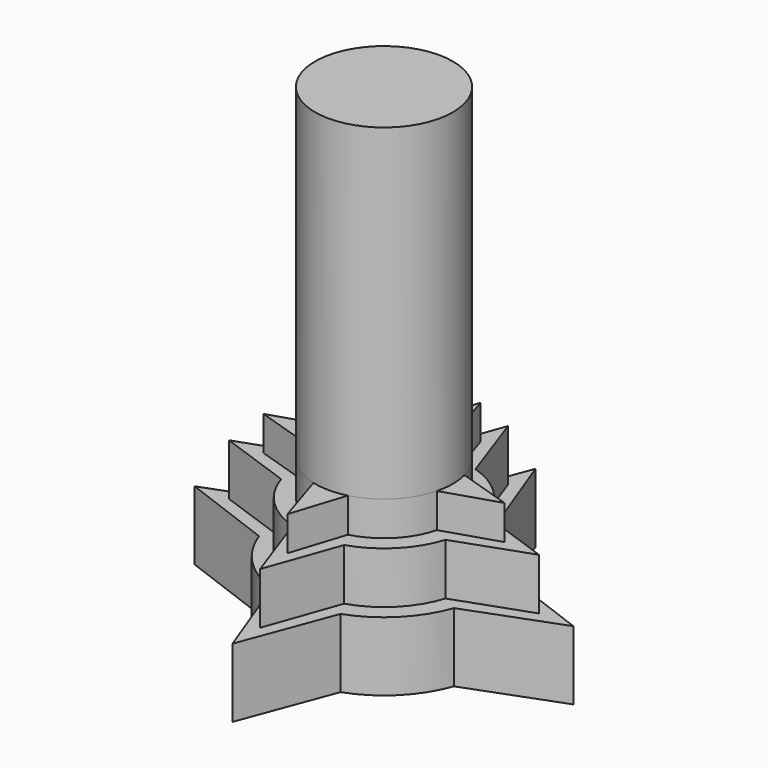
from build123d import *

# Parameters (mm, degrees)
F1_DEPTH = 25.4
F3_DEPTH = 44.45
F5_DEPTH = 57.15
F6_R     = 25.4
F7_DEPTH = 177.8


with BuildPart() as f1:
    # F0 (on Top) → F1 (new body)
    with BuildSketch(Plane.XY):
        with BuildLine():
            ThreePointArc((-38.1, 0), (-37.551305, 6.442785), (-35.921024, 12.7))
            Line((-35.921024, 12.7), (-69.85, 0))
            Line((-69.85, 0), (-38.1, 0))
        make_face()
        with BuildLine():
            Line((-69.85, 0), (-35.921024, -12.7))
            ThreePointArc((-35.921024, -12.7), (-37.551305, -6.442785), (-38.1, 0))
            Line((-38.1, 0), (-69.85, 0))
        make_face()
        with BuildLine():
            ThreePointArc((35.921024, 12.7), (37.551305, 6.442785), (38.1, 0))
            ThreePointArc((38.1, 0), (37.551305, -6.442785), (35.921024, -12.7))
            Line((35.921024, -12.7), (69.85, 0))
            Line((69.85, 0), (35.921024, 12.7))
        make_face()
        with BuildLine():
            ThreePointArc((0, 38.1), (6.442785, 37.551305), (12.7, 35.921024))
            Line((12.7, 35.921024), (0, 69.85))
            Line((0, 69.85), (0, 38.1))
        make_face()
        with BuildLine():
            ThreePointArc((-12.7, 35.921024), (-6.442785, 37.551305), (0, 38.1))
            Line((0, 38.1), (0, 69.85))
            Line((0, 69.85), (-12.7, 35.921024))
        make_face()
        with BuildLine():
            ThreePointArc((35.921024, -12.7), (37.551305, -6.442785), (38.1, 0))
            ThreePointArc((38.1, 0), (37.551305, 6.442785), (35.921024, 12.7))
            ThreePointArc((35.921024, 12.7), (26.940768, 26.940768), (12.7, 35.921024))
            ThreePointArc((12.7, 35.921024), (6.442785, 37.551305), (0, 38.1))
            ThreePointArc((0, 38.1), (-6.442785, 37.551305), (-12.7, 35.921024))
            ThreePointArc((-12.7, 35.921024), (-26.940768, 26.940768), (-35.921024, 12.7))
            ThreePointArc((-35.921024, 12.7), (-37.551305, 6.442785), (-38.1, 0))
            ThreePointArc((-38.1, 0), (-37.551305, -6.442785), (-35.921024, -12.7))
            ThreePointArc((-35.921024, -12.7), (-26.940768, -26.940768), (-12.7, -35.921024))
            ThreePointArc((-12.7, -35.921024), (0, -38.1), (12.7, -35.921024))
            ThreePointArc((12.7, -35.921024), (26.940768, -26.940768), (35.921024, -12.7))
        make_face()
        with BuildLine():
            Line((0, -69.85), (12.7, -35.921024))
            ThreePointArc((12.7, -35.921024), (0, -38.1), (-12.7, -35.921024))
            Line((-12.7, -35.921024), (0, -69.85))
        make_face()
    extrude(amount=F1_DEPTH)

    # F2 (on Top) → F3 (join)
    with BuildSketch(Plane.XY):
        with BuildLine():
            ThreePointArc((30.28757, -9.525), (31.382263, -4.818307), (31.75, 0))
            ThreePointArc((31.75, 0), (31.382263, 4.818307), (30.28757, 9.525))
            ThreePointArc((30.28757, 9.525), (22.45064, 22.45064), (9.525, 30.28757))
            ThreePointArc((9.525, 30.28757), (0, 31.75), (-9.525, 30.28757))
            ThreePointArc((-9.525, 30.28757), (-22.45064, 22.45064), (-30.28757, 9.525))
            ThreePointArc((-30.28757, 9.525), (-31.382263, 4.818307), (-31.75, 0))
            ThreePointArc((-31.75, 0), (-31.382263, -4.818307), (-30.28757, -9.525))
            ThreePointArc((-30.28757, -9.525), (-22.45064, -22.45064), (-9.525, -30.28757))
            ThreePointArc((-9.525, -30.28757), (-4.818307, -31.382263), (0, -31.75))
            ThreePointArc((0, -31.75), (4.818307, -31.382263), (9.525, -30.28757))
            ThreePointArc((9.525, -30.28757), (22.45064, -22.45064), (30.28757, -9.525))
        make_face()
        with BuildLine():
            ThreePointArc((30.28757, 9.525), (31.382263, 4.818307), (31.75, 0))
            ThreePointArc((31.75, 0), (31.382263, -4.818307), (30.28757, -9.525))
            Line((30.28757, -9.525), (57.15, 0))
            Line((57.15, 0), (30.28757, 9.525))
        make_face()
        with BuildLine():
            ThreePointArc((-9.525, 30.28757), (0, 31.75), (9.525, 30.28757))
            Line((9.525, 30.28757), (0, 57.15))
            Line((0, 57.15), (-9.525, 30.28757))
        make_face()
        with BuildLine():
            Line((0, -57.15), (9.525, -30.28757))
            ThreePointArc((9.525, -30.28757), (4.818307, -31.382263), (0, -31.75))
            Line((0, -31.75), (0, -57.15))
        make_face()
        with BuildLine():
            Line((0, -57.15), (0, -31.75))
            ThreePointArc((0, -31.75), (-4.818307, -31.382263), (-9.525, -30.28757))
            Line((-9.525, -30.28757), (0, -57.15))
        make_face()
        with BuildLine():
            ThreePointArc((-31.75, 0), (-31.382263, 4.818307), (-30.28757, 9.525))
            Line((-30.28757, 9.525), (-57.15, 0))
            Line((-57.15, 0), (-31.75, 0))
        make_face()
        with BuildLine():
            ThreePointArc((-30.28757, -9.525), (-31.382263, -4.818307), (-31.75, 0))
            Line((-31.75, 0), (-57.15, 0))
            Line((-57.15, 0), (-30.28757, -9.525))
        make_face()
    extrude(amount=F3_DEPTH)

    # F4 (on Top) → F5 (join)
    with BuildSketch(Plane.XY):
        with BuildLine():
            ThreePointArc((24.593444, -6.35), (25.197554, -3.200509), (25.4, 0))
            ThreePointArc((25.4, 0), (25.197554, 3.200509), (24.593444, 6.35))
            ThreePointArc((24.593444, 6.35), (17.960512, 17.960512), (6.35, 24.593444))
            ThreePointArc((6.35, 24.593444), (3.200509, 25.197554), (0, 25.4))
            ThreePointArc((0, 25.4), (-3.200509, 25.197554), (-6.35, 24.593444))
            ThreePointArc((-6.35, 24.593444), (-17.960512, 17.960512), (-24.593444, 6.35))
            ThreePointArc((-24.593444, 6.35), (-25.197554, 3.200509), (-25.4, 0))
            ThreePointArc((-25.4, 0), (-25.197554, -3.200509), (-24.593444, -6.35))
            ThreePointArc((-24.593444, -6.35), (-17.960512, -17.960512), (-6.35, -24.593444))
            ThreePointArc((-6.35, -24.593444), (0, -25.4), (6.35, -24.593444))
            ThreePointArc((6.35, -24.593444), (17.960512, -17.960512), (24.593444, -6.35))
        make_face()
        with BuildLine():
            ThreePointArc((24.593444, 6.35), (25.197554, 3.200509), (25.4, 0))
            ThreePointArc((25.4, 0), (25.197554, -3.200509), (24.593444, -6.35))
            Line((24.593444, -6.35), (44.45, 0))
            Line((44.45, 0), (24.593444, 6.35))
        make_face()
        with BuildLine():
            ThreePointArc((0, 25.4), (3.200509, 25.197554), (6.35, 24.593444))
            Line((6.35, 24.593444), (0, 44.45))
            Line((0, 44.45), (0, 25.4))
        make_face()
        with BuildLine():
            Line((0, -44.45), (6.35, -24.593444))
            ThreePointArc((6.35, -24.593444), (0, -25.4), (-6.35, -24.593444))
            Line((-6.35, -24.593444), (0, -44.45))
        make_face()
        with BuildLine():
            ThreePointArc((-6.35, 24.593444), (-3.200509, 25.197554), (0, 25.4))
            Line((0, 25.4), (0, 44.45))
            Line((0, 44.45), (-6.35, 24.593444))
        make_face()
        with BuildLine():
            Line((-44.45, 0), (-24.593444, -6.35))
            ThreePointArc((-24.593444, -6.35), (-25.197554, -3.200509), (-25.4, 0))
            Line((-25.4, 0), (-44.45, 0))
        make_face()
        with BuildLine():
            ThreePointArc((-25.4, 0), (-25.197554, 3.200509), (-24.593444, 6.35))
            Line((-24.593444, 6.35), (-44.45, 0))
            Line((-44.45, 0), (-25.4, 0))
        make_face()
    extrude(amount=F5_DEPTH)

    # F6 (on Top) → F7 (join)
    with BuildSketch(Plane.XY):
        Circle(F6_R)
    extrude(amount=F7_DEPTH)


solid = f1.part
